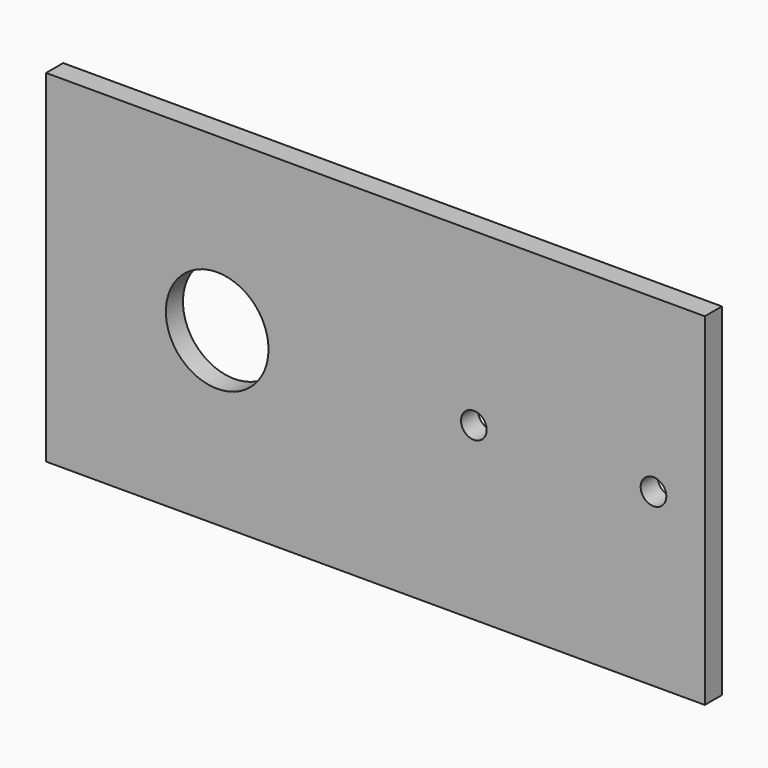
from build123d import *

# Parameters (mm, degrees)
F0_W     = 77
F0_H     = 40
F0_R     = 6
F0_R_2   = 1.5
F1_DEPTH = 2.5


with BuildPart() as f1:
    # F0 (on Front) → F1 (new body)
    with BuildSketch(Plane.XZ):
        with Locations((-40.911766, 20)):
            Rectangle(F0_W, F0_H)
        with Locations((-59.411766, 20)):
            Circle(F0_R, mode=Mode.SUBTRACT)
        with Locations((-29.411766, 20)):
            Circle(F0_R_2, mode=Mode.SUBTRACT)
        with Locations((-8.411766, 20)):
            Circle(F0_R_2, mode=Mode.SUBTRACT)
    extrude(amount=F1_DEPTH)


solid = f1.part
